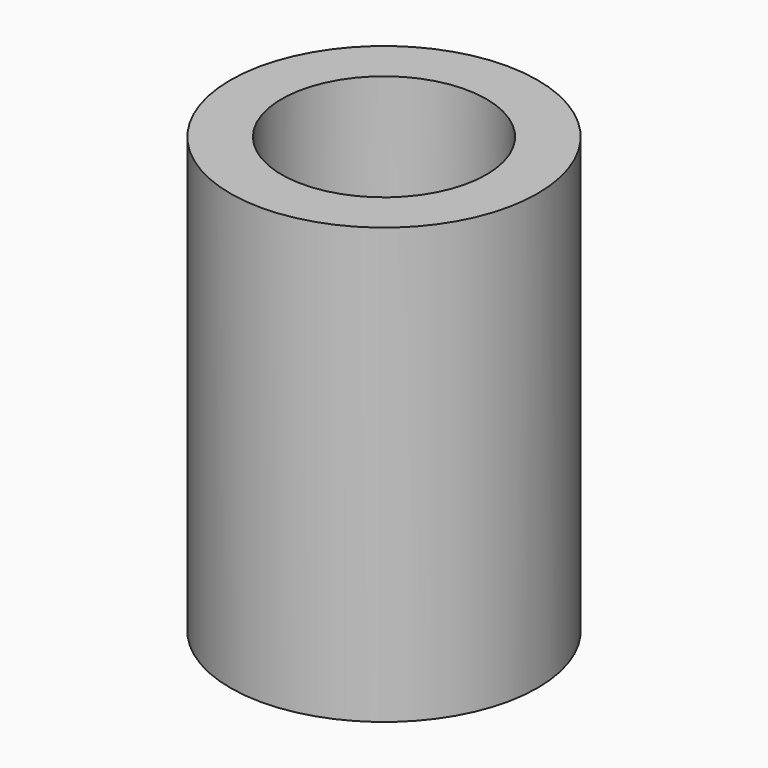
from build123d import *

# Parameters (mm, degrees)
F0_R     = 6
F0_R_2   = 4
F1_DEPTH = 7
F2_DEPTH = 17


with BuildPart() as f1:
    # F0 (on Top) → F1 (new body)
    with BuildSketch(Plane.XY):
        Circle(F0_R)
        Circle(F0_R_2, mode=Mode.SUBTRACT)
        Circle(F0_R_2)
        Polygon((-1, 2.5), (0, 2.5), (1, 2.5), (1, 1), (2.5, 1), (2.5, 0), (2.5, -1), (1, -1), (1, -2.5), (0, -2.5), (-1, -2.5), (-1, -1), (-2.5, -1), (-2.5, 0), (-2.5, 1), (-1, 1), align=None, mode=Mode.SUBTRACT)
    extrude(amount=F1_DEPTH)

    # F0 (on Top) → F2 (join)
    with BuildSketch(Plane.XY):
        Circle(F0_R)
        Circle(F0_R_2, mode=Mode.SUBTRACT)
    extrude(amount=F2_DEPTH)


solid = f1.part
